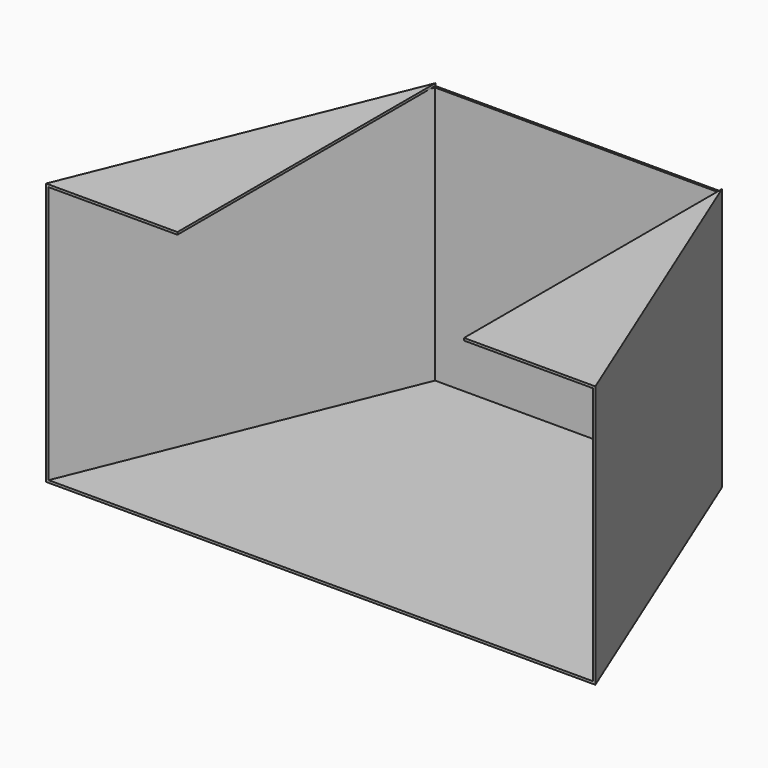
from build123d import *

# Parameters (mm, degrees)
F1_DEPTH = 139.7
F2_T     = -2.54
F3_W     = 304.8
F3_H     = 342.9
F4_DEPTH = 2.54


with BuildPart() as f1:
    # F0 (on Top) → F1 (new body, symmetric)
    with BuildSketch(Plane.XY):
        Polygon((-152.4, 342.9), (-292.1, 0), (292.1, 0), (152.4, 342.9), align=None)
    extrude(amount=F1_DEPTH, both=True)

    # F2
    f2_openings = [f1.faces().sort_by_distance(p)[0] for p in [
        (0, 0, 0),
    ]]
    offset(amount=F2_T, openings=f2_openings)

    # F3 (on face) → F4 (cut, through all)
    with BuildSketch(Plane.XY.offset(139.7)):
        with Locations((0, 171.45)):
            Rectangle(F3_W, F3_H)
    extrude(amount=-F4_DEPTH, mode=Mode.SUBTRACT)


solid = f1.part
